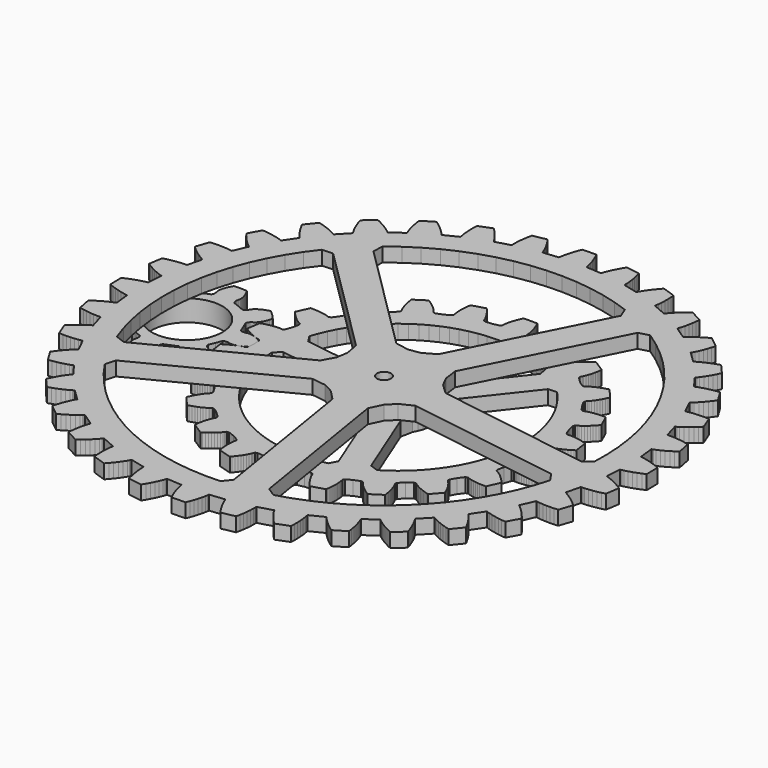
from build123d import *

# Parameters (mm, degrees)
F0_R     = 1.27
F1_DEPTH = 2.54
F2_R     = 6.35
F3_DEPTH = 3.81
F2_R_2   = 1.27
F4_DEPTH = 2.54


with BuildPart() as f1:
    # F0 (on Top) → F1 (new body)
    with BuildSketch(Plane.XY):
        Polygon((18.375401, -1.336624), (18.220461, -1.28811), (18.401309, 1.43604), (18.561329, 1.463726), (18.721349, 1.493952), (19.041389, 1.56304), (19.681977, 1.729664), (20.322819, 1.930578), (20.962899, 2.16248), (21.602217, 2.423084), (22.227418, 2.705071), (22.239602, 2.742456), (22.18796, 5.201742), (22.186128, 5.203334), (21.538717, 5.463464), (20.888985, 5.69689), (20.239507, 5.901868), (19.591045, 6.075858), (18.944107, 6.215558), (18.621273, 6.27093), (18.459983, 6.294806), (18.299201, 6.315634), (18.004307, 9.029878), (18.156961, 9.084742), (18.309361, 9.1424), (18.612637, 9.266098), (19.214617, 9.541434), (19.810755, 9.850552), (20.400797, 10.19015), (20.985251, 10.557688), (21.563355, 10.951896), (21.079485, 13.396646), (20.394447, 13.540664), (19.714235, 13.658012), (19.039103, 13.746912), (18.370321, 13.805586), (17.708651, 13.830986), (17.381245, 13.829462), (17.218431, 13.82489), (17.056379, 13.817524), (16.294633, 16.439312), (16.435603, 16.51983), (16.575303, 16.603142), (16.852671, 16.777386), (17.397755, 17.153306), (17.930901, 17.56123), (18.453379, 17.99811), (18.964935, 18.46166), (19.465823, 18.950102), (18.564631, 21.273694), (17.865115, 21.296808), (17.174997, 21.294014), (16.494531, 21.26455), (15.825749, 21.20613), (15.169921, 21.11596), (14.847595, 21.057794), (14.688083, 21.025028), (14.529587, 20.989468), (13.324357, 23.439298), (13.449071, 23.543184), (13.572261, 23.649356), (13.815085, 23.86932), (14.286509, 24.333886), (14.740915, 24.828424), (15.179573, 25.349124), (15.602737, 25.894462), (16.011423, 26.46266), (14.720341, 28.594482), (14.027429, 28.495676), (13.348233, 28.373248), (12.683261, 28.225928), (12.034799, 28.052192), (11.404371, 27.849754), (11.097285, 27.73647), (10.945901, 27.676272), (10.796041, 27.614042), (9.183649, 29.816984), (9.288297, 29.940936), (9.391421, 30.067174), (9.592081, 30.325746), (9.975875, 30.865242), (10.337571, 31.431154), (10.678947, 32.02018), (11.001019, 32.630796), (11.304803, 33.261224), (9.663201, 35.136506), (8.997975, 34.918828), (8.350275, 34.680068), (7.721117, 34.419718), (7.112533, 34.136), (6.527063, 33.827136), (6.244107, 33.66229), (6.105423, 33.576946), (5.968771, 33.489316), (3.998239, 35.379076), (4.079773, 35.519284), (4.159275, 35.66127), (4.312183, 35.951084), (4.596409, 36.549), (4.854219, 37.16876), (5.088153, 37.808332), (5.299481, 38.465684), (5.489219, 39.139292), (3.546881, 40.700884), (2.929661, 40.370938), (2.333015, 40.023466), (1.758721, 39.657706), (1.208811, 39.272642), (0.685571, 38.86675), (0.435635, 38.655168), (0.313969, 38.547218), (0.194589, 38.437236), (-2.074139, 39.956156), (-2.018005, 40.108302), (-1.964411, 40.261972), (-1.864081, 40.573884), (-1.688313, 41.211932), (-1.542009, 41.867252), (-1.422629, 42.537812), (-1.328649, 43.22158), (-1.258799, 43.918048), (-3.442945, 45.118706), (-3.993363, 44.686652), (-4.520413, 44.240882), (-5.022571, 43.780888), (-5.497551, 43.306162), (-5.942051, 42.815688), (-6.151601, 42.563974), (-6.252693, 42.436212), (-6.351245, 42.30718), (-8.849081, 43.409032), (-8.820379, 43.568798), (-8.794217, 43.72958), (-8.749513, 44.053938), (-8.687029, 44.713068), (-8.656803, 45.383882), (-8.655787, 46.064602), (-8.681949, 46.754466), (-8.734019, 47.452458), (-11.093425, 48.255606), (-11.560531, 47.734398), (-12.002237, 47.204046), (-12.416765, 46.663788), (-12.802083, 46.113878), (-13.154889, 45.553554), (-13.317195, 45.269328), (-13.394665, 45.126072), (-13.469341, 44.9818), (-16.120847, 45.633056), (-16.120085, 45.795362), (-16.122371, 45.958176), (-16.134563, 46.285582), (-16.187649, 46.945474), (-16.274263, 47.611208), (-16.391357, 48.282022), (-16.536899, 48.9569), (-16.709619, 49.63508), (-19.172657, 50.016334), (-19.542227, 49.421974), (-19.884873, 48.822788), (-20.199579, 48.21903), (-20.483297, 47.610446), (-20.733233, 46.997544), (-20.843977, 46.689188), (-20.895539, 46.534756), (-20.943799, 46.379816), (-23.668203, 46.560664), (-23.695635, 46.720684), (-23.726115, 46.880704), (-23.795203, 47.200744), (-23.961827, 47.841332), (-24.162741, 48.482174), (-24.394643, 49.122254), (-24.655247, 49.761572), (-24.943029, 50.39962), (-27.434769, 50.347296), (-27.695373, 49.698072), (-27.929053, 49.04834), (-28.133777, 48.398862), (-28.307767, 47.7504), (-28.447467, 47.103462), (-28.503093, 46.780628), (-28.526715, 46.619338), (-28.547543, 46.458556), (-31.261787, 46.163662), (-31.316651, 46.316316), (-31.374563, 46.468716), (-31.498007, 46.771992), (-31.773597, 47.373972), (-32.082715, 47.97011), (-32.422059, 48.560152), (-32.789851, 49.144606), (-33.183805, 49.72271), (-35.628809, 49.23884), (-35.772827, 48.553802), (-35.889921, 47.87359), (-35.979075, 47.198458), (-36.037749, 46.529676), (-36.062895, 45.868006), (-36.061625, 45.5406), (-36.057053, 45.377786), (-36.049433, 45.215734), (-38.671221, 44.453988), (-38.751993, 44.594958), (-38.835305, 44.734658), (-39.009549, 45.012026), (-39.385469, 45.55711), (-39.793393, 46.090256), (-40.230019, 46.612734), (-40.693569, 47.12429), (-41.182265, 47.625178), (-43.505857, 46.723986), (-43.528717, 46.02447), (-43.526177, 45.334352), (-43.496459, 44.653886), (-43.438039, 43.985104), (-43.348123, 43.329276), (-43.289957, 43.00695), (-43.257191, 42.847438), (-43.221631, 42.688942), (-45.671207, 41.483712), (-45.775093, 41.608426), (-45.881519, 41.731616), (-46.101229, 41.97444), (-46.566049, 42.445864), (-47.060333, 42.90027), (-47.581287, 43.338928), (-48.126625, 43.762092), (-48.694823, 44.170778), (-50.826645, 42.879696), (-50.727839, 42.186784), (-50.605157, 41.507588), (-50.457837, 40.842616), (-50.284101, 40.194154), (-50.081663, 39.563726), (-49.968379, 39.25664), (-49.908435, 39.105256), (-49.845951, 38.955396), (-52.049147, 37.343004), (-52.173099, 37.447652), (-52.299337, 37.550776), (-52.557909, 37.751436), (-53.097405, 38.13523), (-53.663063, 38.496926), (-54.252343, 38.838302), (-54.862705, 39.160374), (-55.493387, 39.464158), (-57.368415, 37.822556), (-57.150991, 37.15733), (-56.912231, 36.50963), (-56.651627, 35.880472), (-56.368163, 35.271888), (-56.059299, 34.686418), (-55.894199, 34.403462), (-55.808855, 34.264778), (-55.721479, 34.128126), (-57.610985, 32.157594), (-57.751193, 32.239128), (-57.893433, 32.31863), (-58.182993, 32.471538), (-58.780909, 32.755764), (-59.400923, 33.013574), (-60.040495, 33.247508), (-60.697593, 33.458836), (-61.371201, 33.648574), (-62.933047, 31.706236), (-62.603101, 31.089016), (-62.255629, 30.49237), (-61.889869, 29.918076), (-61.504805, 29.368166), (-61.098913, 28.844926), (-60.887331, 28.59499), (-60.779127, 28.473324), (-60.669399, 28.353944), (-62.188065, 26.085216), (-62.340465, 26.14135), (-62.494135, 26.194944), (-62.805793, 26.295274), (-63.444095, 26.471042), (-64.099415, 26.617346), (-64.769721, 26.736726), (-65.453743, 26.830706), (-66.149957, 26.900556), (-67.350615, 24.71641), (-66.918815, 24.165992), (-66.472791, 23.638942), (-66.013051, 23.136784), (-65.538325, 22.661804), (-65.047597, 22.217304), (-64.795883, 22.007754), (-64.668375, 21.906662), (-64.539343, 21.80811), (-65.641195, 19.310274), (-65.800707, 19.338976), (-65.961489, 19.365138), (-66.286101, 19.409842), (-66.944977, 19.472326), (-67.615791, 19.502552), (-68.296765, 19.503568), (-68.986629, 19.477406), (-69.684367, 19.425336), (-70.487515, 17.06593), (-69.966561, 16.598824), (-69.435955, 16.157118), (-68.895951, 15.74259), (-68.345787, 15.357272), (-67.785717, 15.004466), (-67.501237, 14.84216), (-67.357981, 14.76469), (-67.213963, 14.690014), (-67.865219, 12.038508), (-68.027525, 12.03927), (-68.190339, 12.036984), (-68.517491, 12.024792), (-69.177383, 11.971706), (-69.843371, 11.885092), (-70.514185, 11.767998), (-71.188809, 11.622456), (-71.866989, 11.449736), (-72.248243, 8.986698), (-71.654137, 8.617128), (-71.054951, 8.274482), (-70.450939, 7.959776), (-69.842355, 7.676058), (-69.229453, 7.426122), (-68.921351, 7.315378), (-68.766665, 7.263816), (-68.611979, 7.215556), (-68.792827, 4.491152), (-68.952593, 4.46372), (-69.112613, 4.43324), (-69.432907, 4.364152), (-70.073495, 4.197528), (-70.714083, 3.996614), (-71.354417, 3.764712), (-71.993735, 3.504108), (-72.631529, 3.216326), (-72.579459, 0.724586), (-71.929981, 0.463982), (-71.280503, 0.230302), (-70.631025, 0.025578), (-69.982563, -0.148412), (-69.335371, -0.288112), (-69.012537, -0.343738), (-68.851501, -0.36736), (-68.690465, -0.388188), (-68.395825, -3.102432), (-68.548479, -3.157296), (-68.700625, -3.215208), (-69.003901, -3.338652), (-69.605881, -3.614242), (-70.202019, -3.92336), (-70.792315, -4.262704), (-71.376515, -4.630496), (-71.954873, -5.02445), (-71.470749, -7.469454), (-70.785965, -7.613472), (-70.105499, -7.730566), (-69.430621, -7.81972), (-68.761585, -7.878394), (-68.100169, -7.90354), (-67.772763, -7.90227), (-67.609949, -7.897698), (-67.447643, -7.890078), (-66.686151, -10.511866), (-66.826867, -10.592638), (-66.966821, -10.67595), (-67.243935, -10.850194), (-67.789019, -11.226114), (-68.322419, -11.634038), (-68.844643, -12.070664), (-69.356199, -12.534214), (-69.857341, -13.02291), (-68.956149, -15.346502), (-68.256633, -15.369362), (-67.566261, -15.366822), (-66.886049, -15.337104), (-66.217013, -15.278684), (-65.561185, -15.188768), (-65.238859, -15.130602), (-65.079347, -15.097836), (-64.921105, -15.062276), (-63.715621, -17.511852), (-63.840335, -17.615738), (-63.963779, -17.722164), (-64.206603, -17.941874), (-64.678027, -18.406694), (-65.132433, -18.900978), (-65.570837, -19.421932), (-65.994255, -19.96727), (-66.402687, -20.535468), (-65.111605, -22.66729), (-64.418947, -22.568484), (-63.739497, -22.445802), (-63.074779, -22.298482), (-62.426063, -22.124746), (-61.795889, -21.922308), (-61.488549, -21.809024), (-61.337165, -21.74908), (-61.187305, -21.686596), (-59.574913, -23.889792), (-59.679815, -24.013744), (-59.782685, -24.139982), (-59.983599, -24.398554), (-60.367139, -24.93805), (-60.728835, -25.503708), (-61.070211, -26.092988), (-61.392537, -26.70335), (-61.696321, -27.334032), (-60.054465, -29.20906), (-59.389493, -28.991636), (-58.741539, -28.752876), (-58.112635, -28.492272), (-57.504051, -28.208808), (-56.918327, -27.899944), (-56.635625, -27.734844), (-56.496687, -27.6495), (-56.360035, -27.562124), (-54.389503, -29.45163), (-54.471291, -29.591838), (-54.550793, -29.734078), (-54.703701, -30.023638), (-54.987927, -30.621554), (-55.245737, -31.241568), (-55.479671, -31.88114), (-55.690999, -32.538238), (-55.880483, -33.211846), (-53.938145, -34.773692), (-53.320925, -34.443746), (-52.724533, -34.096274), (-52.150239, -33.730514), (-51.600075, -33.34545), (-51.077089, -32.939558), (-50.827153, -32.727976), (-50.705233, -32.619772), (-50.585853, -32.510044), (-48.317125, -34.02871), (-48.373259, -34.18111), (-48.426853, -34.33478), (-48.527183, -34.646438), (-48.703205, -35.28474), (-48.849509, -35.94006), (-48.968889, -36.610366), (-49.062869, -37.294388), (-49.132465, -37.990602), (-46.948573, -39.19126), (-46.397901, -38.75946), (-45.870851, -38.313436), (-45.368947, -37.853696), (-44.893967, -37.37897), (-44.449467, -36.888242), (-44.239917, -36.636528), (-44.138825, -36.50902), (-44.040273, -36.379988), (-41.542183, -37.48184), (-41.571139, -37.641352), (-41.597047, -37.802134), (-41.641751, -38.126746), (-41.704235, -38.785622), (-41.734715, -39.456436), (-41.735731, -40.13741), (-41.709569, -40.827274), (-41.657245, -41.525012), (-39.297839, -42.32816), (-38.830733, -41.807206), (-38.389027, -41.2766), (-37.974499, -40.736596), (-37.589181, -40.186432), (-37.236629, -39.626362), (-37.074069, -39.341882), (-36.996599, -39.198626), (-36.921923, -39.054608), (-34.270671, -39.705864), (-34.271179, -39.86817), (-34.269147, -40.030984), (-34.256701, -40.358136), (-34.203869, -41.018028), (-34.117255, -41.684016), (-33.999907, -42.35483), (-33.854365, -43.029454), (-33.681899, -43.707634), (-31.218861, -44.088888), (-30.849291, -43.494782), (-30.506391, -42.895596), (-30.191939, -42.291584), (-29.907967, -41.683), (-29.658031, -41.070098), (-29.547287, -40.761996), (-29.495979, -40.60731), (-29.447465, -40.452624), (-26.723315, -40.633472), (-26.695629, -40.793238), (-26.665403, -40.953258), (-26.596315, -41.273552), (-26.429691, -41.91414), (-26.228777, -42.554728), (-25.996875, -43.195062), (-25.736271, -43.83438), (-25.448489, -44.472174), (-22.956749, -44.420104), (-22.695891, -43.770626), (-22.462465, -43.121148), (-22.257487, -42.47167), (-22.083497, -41.823208), (-21.943797, -41.176016), (-21.888425, -40.853182), (-21.864549, -40.692146), (-21.843721, -40.53111), (-19.129477, -40.23647), (-19.074613, -40.389124), (-19.016955, -40.54127), (-18.893257, -40.844546), (-18.617921, -41.446526), (-18.308803, -42.042664), (-17.969205, -42.63296), (-17.601667, -43.21716), (-17.207459, -43.795518), (-14.762709, -43.311394), (-14.618691, -42.62661), (-14.501343, -41.946144), (-14.412443, -41.271266), (-14.353769, -40.60223), (-14.328369, -39.940814), (-14.329893, -39.613408), (-14.334465, -39.450594), (-14.341831, -39.288288), (-11.720043, -38.526796), (-11.639525, -38.667512), (-11.556213, -38.807466), (-11.381969, -39.08458), (-11.006049, -39.629664), (-10.598125, -40.163064), (-10.161245, -40.685288), (-9.697695, -41.196844), (-9.209253, -41.697986), (-6.885661, -40.796794), (-6.862547, -40.097278), (-6.865341, -39.406906), (-6.894805, -38.726694), (-6.953225, -38.057658), (-7.043395, -37.40183), (-7.101561, -37.079504), (-7.134327, -36.919992), (-7.169887, -36.76175), (-4.720057, -35.556266), (-4.616171, -35.68098), (-4.509999, -35.804424), (-4.290035, -36.047248), (-3.825469, -36.518672), (-3.330931, -36.973078), (-2.810231, -37.411482), (-2.264893, -37.8349), (-1.696695, -38.243332), (0.435127, -36.95225), (0.336321, -36.259592), (0.213893, -35.580142), (0.066573, -34.915424), (-0.107163, -34.266708), (-0.309601, -33.636534), (-0.422885, -33.329194), (-0.483083, -33.17781), (-0.545313, -33.02795), (1.657629, -31.415558), (1.781581, -31.52046), (1.907819, -31.62333), (2.166391, -31.824244), (2.705887, -32.207784), (3.271799, -32.56948), (3.860825, -32.910856), (4.471441, -33.233182), (5.101869, -33.536966), (6.977151, -31.89511), (6.759473, -31.230138), (6.520713, -30.582184), (6.260363, -29.95328), (5.976645, -29.344696), (5.667781, -28.758972), (5.502935, -28.47627), (5.417591, -28.337332), (5.329961, -28.20068), (7.219721, -26.230148), (7.359929, -26.311936), (7.501915, -26.391438), (7.791729, -26.544346), (8.389645, -26.828572), (9.009405, -27.086382), (9.648977, -27.320316), (10.306329, -27.531644), (10.979937, -27.721128), (12.541529, -25.77879), (12.211583, -25.16157), (11.864111, -24.565178), (11.498351, -23.990884), (11.113287, -23.44072), (10.707395, -22.917734), (10.495813, -22.667798), (10.387863, -22.545878), (10.277881, -22.426498), (11.796801, -20.15777), (11.948947, -20.213904), (12.102617, -20.267498), (12.414529, -20.367828), (13.052577, -20.54385), (13.707897, -20.690154), (14.378457, -20.809534), (15.062225, -20.903514), (15.758693, -20.97311), (16.959351, -18.789218), (16.527297, -18.238546), (16.081527, -17.711496), (15.621533, -17.209592), (15.146807, -16.734612), (14.656333, -16.290112), (14.404619, -16.080562), (14.276857, -15.97947), (14.147825, -15.880918), (15.249677, -13.382828), (15.409443, -13.411784), (15.570225, -13.437692), (15.894583, -13.482396), (16.553713, -13.54488), (17.224527, -13.57536), (17.905247, -13.576376), (18.595111, -13.550214), (19.293103, -13.49789), (20.096251, -11.138484), (19.575043, -10.671378), (19.044691, -10.229672), (18.504433, -9.815144), (17.954523, -9.429826), (17.394199, -9.077274), (17.109973, -8.914714), (16.966717, -8.837244), (16.822445, -8.762568), (17.473701, -6.111316), (17.636007, -6.111824), (17.798821, -6.109792), (18.126227, -6.097346), (18.786119, -6.044514), (19.451853, -5.9579), (20.122667, -5.840552), (20.797545, -5.69501), (21.475725, -5.522544), (21.856979, -3.059506), (21.262619, -2.689936), (20.663433, -2.347036), (20.059675, -2.032584), (19.451091, -1.748612), (18.838189, -1.498676), (18.529833, -1.387932), align=None)
        Polygon((-57.539865, -16.859072), (-32.495973, -3.98813), (-30.011599, -4.311472), (-28.193467, -5.229936), (-26.459155, -7.037654), (-21.957259, -34.833128), (-23.155123, -36.338078), (-25.880797, -36.384814), (-28.603169, -36.243082), (-31.309285, -35.913136), (-33.985937, -35.396754), (-36.620425, -34.696222), (-39.200049, -33.814842), (-41.712617, -32.757186), (-44.145683, -31.52808), (-46.488071, -30.133366), (-48.728097, -28.579902), (-50.855347, -26.875308), (-52.859661, -25.027204), (-54.730879, -23.044988), (-56.460619, -20.938058), (-58.040245, -18.71632), align=None, mode=Mode.SUBTRACT)
        with Locations((-25.195759, 2.963596)):
            Circle(F0_R, mode=Mode.SUBTRACT)
        Polygon((-16.338017, -33.923046), (-20.839913, -6.127572), (-19.764731, -3.864686), (-18.329631, -2.419426), (-16.074365, -1.328496), (11.752097, -5.636336), (12.812801, -7.2406), (12.015241, -9.847402), (11.039119, -12.392482), (9.889261, -14.864156), (8.570747, -17.250232), (7.090435, -19.53928), (5.455183, -21.720378), (3.672865, -23.783112), (1.751863, -25.717322), (-0.298171, -27.514118), (-2.467839, -29.16461), (-4.746473, -30.660924), (-7.123405, -31.995948), (-9.586951, -33.163078), (-12.125173, -34.15698), (-14.726387, -34.972828), align=None, mode=Mode.SUBTRACT)
        Polygon((-54.043047, 27.59931), (-34.063153, 7.758354), (-33.602905, 5.295824), (-33.914563, 3.282874), (-35.097949, 1.074598), (-60.141841, -11.79609), (-61.943209, -11.121974), (-62.830177, -8.544128), (-63.536551, -5.911164), (-64.059029, -3.235782), (-64.394817, -0.530428), (-64.542645, 2.19169), (-64.501751, 4.917364), (-64.272135, 7.63364), (-63.855067, 10.327818), (-63.252579, 12.986436), (-62.467465, 15.596794), (-61.503535, 18.1467), (-60.365361, 20.623962), (-59.058277, 23.016134), (-57.588887, 25.312294), (-55.964049, 27.501266), align=None, mode=Mode.SUBTRACT)
        Polygon((-10.680167, 38.01204), (-23.375849, 12.87874), (-25.575743, 11.680114), (-27.586407, 11.354486), (-30.052239, 11.797462), (-50.032133, 31.638418), (-49.947551, 33.559928), (-47.770009, 35.200006), (-45.484263, 36.685398), (-43.100981, 38.008992), (-40.631847, 39.164438), (-38.088799, 40.146402), (-35.483775, 40.94955), (-32.829475, 41.570834), (-30.138599, 42.006698), (-27.423847, 42.25511), (-24.698427, 42.315054), (-21.975293, 42.186276), (-19.267907, 41.869284), (-16.588715, 41.365602), (-13.950925, 40.677516), (-11.366983, 39.808582), align=None, mode=Mode.SUBTRACT)
        Polygon((12.622809, -0.010744), (-15.203653, 4.296842), (-17.023309, 6.018708), (-17.954219, 7.830236), (-18.295087, 10.31207), (-5.599151, 35.44537), (-3.745713, 35.958704), (-1.512799, 34.394572), (0.606069, 32.679818), (2.601493, 30.822316), (4.463313, 28.83121), (6.182893, 26.715898), (7.751851, 24.48654), (9.162821, 22.154058), (10.408945, 19.729374), (11.484127, 17.224426), (12.383287, 14.650898), (13.102361, 12.02149), (13.637539, 9.348394), (13.986281, 6.644818), (14.147063, 3.923462), (14.119123, 1.197534), align=None, mode=Mode.SUBTRACT)
    extrude(amount=F1_DEPTH)


with BuildPart() as f3:
    # F2 (on Top) → F3 (new body)
    with BuildSketch(Plane.XY):
        Polygon((-52.588262, 5.053381), (-53.012188, 6.119673), (-53.46634, 7.173519), (-53.453894, 7.276897), (-53.430018, 7.360209), (-53.400046, 7.432599), (-53.365756, 7.498131), (-53.28854, 7.614209), (-53.202942, 7.716063), (-53.110486, 7.807757), (-53.01295, 7.890815), (-52.80467, 8.037119), (-52.584452, 8.164881), (-52.396492, 8.342173), (-52.226058, 8.545627), (-52.069086, 8.768131), (-51.92456, 9.006891), (-51.791972, 9.260129), (-51.670814, 9.526575), (-51.56134, 9.805213), (-51.463296, 10.095535), (-51.377444, 10.396525), (-51.320802, 10.629189), (-52.095756, 11.482121), (-52.948942, 12.257329), (-53.181352, 12.200687), (-53.482596, 12.114581), (-53.772664, 12.016791), (-54.051556, 11.907317), (-54.318002, 11.786159), (-54.570986, 11.653317), (-54.809746, 11.508791), (-55.03225, 11.352073), (-55.235958, 11.181639), (-55.41325, 10.993679), (-55.540758, 10.773207), (-55.687062, 10.565181), (-55.770374, 10.467391), (-55.862068, 10.375189), (-55.963922, 10.289337), (-56.08, 10.212121), (-56.145278, 10.178085), (-56.217922, 10.148113), (-56.301234, 10.124237), (-56.404358, 10.111537), (-57.458204, 10.565689), (-58.52475, 10.989869), (-58.588758, 11.071657), (-58.630668, 11.147349), (-58.660894, 11.219993), (-58.682992, 11.290351), (-58.710424, 11.427003), (-58.721854, 11.559845), (-58.721346, 11.689893), (-58.711186, 11.817655), (-58.667498, 12.068353), (-58.601712, 12.314479), (-58.594346, 12.572797), (-58.617714, 12.837211), (-58.664196, 13.105435), (-58.730744, 13.376453), (-58.816088, 13.649249), (-58.918704, 13.923315), (-59.038338, 14.197889), (-59.174482, 14.472209), (-59.326374, 14.746021), (-59.450834, 14.950491), (-60.602216, 15.005609), (-61.753344, 14.950491), (-61.877804, 14.746021), (-62.02995, 14.472209), (-62.16584, 14.197889), (-62.285474, 13.923315), (-62.388344, 13.649249), (-62.473434, 13.376453), (-62.539982, 13.105435), (-62.586464, 12.837211), (-62.609832, 12.572797), (-62.602466, 12.314479), (-62.536934, 12.068353), (-62.492992, 11.817655), (-62.482832, 11.689893), (-62.482324, 11.559845), (-62.493754, 11.427003), (-62.52144, 11.290351), (-62.543538, 11.219993), (-62.57351, 11.147349), (-62.615674, 11.071657), (-62.679682, 10.989869), (-63.745974, 10.565689), (-64.79982, 10.111537), (-64.902944, 10.124237), (-64.986256, 10.148113), (-65.0589, 10.178085), (-65.124432, 10.212121), (-65.240256, 10.289337), (-65.342364, 10.375189), (-65.433804, 10.467391), (-65.517116, 10.565181), (-65.66342, 10.773207), (-65.790928, 10.993679), (-65.968474, 11.181639), (-66.171928, 11.352073), (-66.394432, 11.508791), (-66.633192, 11.653317), (-66.88643, 11.786159), (-67.152876, 11.907317), (-67.431514, 12.016791), (-67.721836, 12.114581), (-68.022826, 12.200687), (-68.255236, 12.257329), (-69.108422, 11.482121), (-69.88363, 10.629189), (-69.826988, 10.396525), (-69.740882, 10.095535), (-69.643092, 9.805213), (-69.533618, 9.526575), (-69.41246, 9.260129), (-69.279618, 9.006891), (-69.135092, 8.768131), (-68.978374, 8.545627), (-68.80794, 8.342173), (-68.61998, 8.164881), (-68.399508, 8.037119), (-68.191228, 7.890815), (-68.093692, 7.807757), (-68.00149, 7.716063), (-67.915638, 7.614209), (-67.838422, 7.498131), (-67.804386, 7.432599), (-67.77416, 7.360209), (-67.750538, 7.276897), (-67.737838, 7.173519), (-68.19199, 6.119673), (-68.61617, 5.053381), (-68.697958, 4.989373), (-68.77365, 4.947209), (-68.846294, 4.917237), (-68.916652, 4.895139), (-69.053304, 4.867707), (-69.186146, 4.856277), (-69.316194, 4.856785), (-69.443956, 4.866691), (-69.694654, 4.910633), (-69.940526, 4.976165), (-70.199098, 4.983785), (-70.463512, 4.960417), (-70.731736, 4.913935), (-71.002754, 4.847133), (-71.27555, 4.762043), (-71.549616, 4.659427), (-71.82419, 4.539539), (-72.09851, 4.403649), (-72.372322, 4.251503), (-72.576792, 4.127297), (-72.63191, 2.975915), (-72.576792, 1.824533), (-72.372322, 1.700327), (-72.09851, 1.548181), (-71.82419, 1.412037), (-71.549616, 1.292403), (-71.27555, 1.189787), (-71.002754, 1.104443), (-70.731736, 1.037895), (-70.463512, 0.991413), (-70.199098, 0.968045), (-69.940526, 0.975665), (-69.694654, 1.041197), (-69.443956, 1.084885), (-69.316194, 1.095045), (-69.186146, 1.095553), (-69.053304, 1.084123), (-68.916652, 1.056691), (-68.846294, 1.034593), (-68.77365, 1.004621), (-68.697958, 0.962457), (-68.61617, 0.898449), (-68.19199, -0.167843), (-67.737838, -1.221689), (-67.750538, -1.325067), (-67.77416, -1.408379), (-67.804386, -1.480769), (-67.838422, -1.546301), (-67.915638, -1.662379), (-68.00149, -1.764233), (-68.093692, -1.855927), (-68.191228, -1.939239), (-68.399508, -2.085289), (-68.61998, -2.213051), (-68.80794, -2.390343), (-68.978374, -2.593797), (-69.135092, -2.816301), (-69.279618, -3.055061), (-69.41246, -3.308299), (-69.533618, -3.574745), (-69.643092, -3.853383), (-69.740882, -4.143705), (-69.826988, -4.444695), (-69.88363, -4.677359), (-69.108422, -5.530545), (-68.255236, -6.305499), (-68.022826, -6.248857), (-67.721836, -6.162751), (-67.431514, -6.064961), (-67.152876, -5.955487), (-66.88643, -5.834329), (-66.633192, -5.701487), (-66.394432, -5.556961), (-66.171928, -5.400243), (-65.968474, -5.229809), (-65.790928, -5.041849), (-65.66342, -4.821377), (-65.517116, -4.613351), (-65.433804, -4.515561), (-65.342364, -4.423359), (-65.240256, -4.337507), (-65.124432, -4.260291), (-65.0589, -4.226255), (-64.986256, -4.196283), (-64.902944, -4.172407), (-64.79982, -4.159707), (-63.745974, -4.614113), (-62.679682, -5.038039), (-62.615674, -5.119827), (-62.57351, -5.195519), (-62.543538, -5.268163), (-62.52144, -5.338521), (-62.493754, -5.475173), (-62.482324, -5.608015), (-62.482832, -5.738063), (-62.492992, -5.865825), (-62.536934, -6.116523), (-62.602466, -6.362649), (-62.609832, -6.620967), (-62.586464, -6.885381), (-62.539982, -7.153605), (-62.473434, -7.424623), (-62.388344, -7.697419), (-62.285474, -7.971485), (-62.16584, -8.246059), (-62.02995, -8.520633), (-61.877804, -8.794191), (-61.753344, -8.998661), (-60.602216, -9.053779), (-59.450834, -8.998661), (-59.326374, -8.794191), (-59.174482, -8.520633), (-59.038338, -8.246059), (-58.918704, -7.971485), (-58.816088, -7.697419), (-58.730744, -7.424623), (-58.664196, -7.153605), (-58.617714, -6.885381), (-58.594346, -6.620967), (-58.601712, -6.362649), (-58.667498, -6.116523), (-58.711186, -5.865825), (-58.721346, -5.738063), (-58.721854, -5.608015), (-58.710424, -5.475173), (-58.682992, -5.338521), (-58.660894, -5.268163), (-58.630668, -5.195519), (-58.588758, -5.119827), (-58.52475, -5.038039), (-57.458204, -4.614113), (-56.404358, -4.159707), (-56.301234, -4.172407), (-56.217922, -4.196283), (-56.145278, -4.226255), (-56.08, -4.260291), (-55.963922, -4.337507), (-55.862068, -4.423359), (-55.770374, -4.515561), (-55.687062, -4.613351), (-55.540758, -4.821377), (-55.41325, -5.041849), (-55.235958, -5.229809), (-55.03225, -5.400243), (-54.809746, -5.556961), (-54.570986, -5.701487), (-54.318002, -5.834329), (-54.051556, -5.955487), (-53.772664, -6.064961), (-53.482596, -6.162751), (-53.181352, -6.248857), (-52.948942, -6.305499), (-52.095756, -5.530545), (-51.320802, -4.677359), (-51.377444, -4.444695), (-51.463296, -4.143705), (-51.56134, -3.853383), (-51.670814, -3.574745), (-51.791972, -3.308299), (-51.92456, -3.055061), (-52.069086, -2.816301), (-52.226058, -2.593797), (-52.396492, -2.390343), (-52.584452, -2.213051), (-52.80467, -2.085289), (-53.01295, -1.939239), (-53.110486, -1.855927), (-53.202942, -1.764233), (-53.28854, -1.662379), (-53.365756, -1.546301), (-53.400046, -1.480769), (-53.430018, -1.408379), (-53.453894, -1.325067), (-53.46634, -1.221689), (-53.012188, -0.167843), (-52.588262, 0.898449), (-52.506474, 0.962457), (-52.430528, 1.004621), (-52.358138, 1.034593), (-52.287526, 1.056691), (-52.151128, 1.084123), (-52.018286, 1.095553), (-51.888238, 1.095045), (-51.760476, 1.084885), (-51.509778, 1.041197), (-51.263652, 0.975665), (-51.005334, 0.968045), (-50.74092, 0.991413), (-50.472696, 1.037895), (-50.201678, 1.104443), (-49.928628, 1.189787), (-49.654562, 1.292403), (-49.380242, 1.412037), (-49.105668, 1.548181), (-48.83211, 1.700327), (-48.640576, 1.816674), (-48.572268, 2.975915), (-48.640576, 4.135155), (-48.83211, 4.251503), (-49.105668, 4.403649), (-49.380242, 4.539539), (-49.654562, 4.659427), (-49.928628, 4.762043), (-50.201678, 4.847133), (-50.472696, 4.913935), (-50.74092, 4.960417), (-51.005334, 4.983785), (-51.263652, 4.976165), (-51.509778, 4.910633), (-51.760476, 4.866691), (-51.888238, 4.856785), (-52.018286, 4.856277), (-52.151128, 4.867707), (-52.287526, 4.895139), (-52.358138, 4.917237), (-52.430528, 4.947209), (-52.506474, 4.989373), align=None)
        with Locations((-60.602216, 2.975915)):
            Circle(F2_R, mode=Mode.SUBTRACT)
    extrude(amount=-F3_DEPTH)


with BuildPart() as f4:
    # F2 (on Top) → F4 (new body)
    with BuildSketch(Plane.XY):
        Polygon((-48.641356, 4.148379), (-48.640576, 4.135155), (-48.62764, 4.127297), (-48.572268, 2.975915), (-48.62764, 1.824533), (-48.640576, 1.816674), (-48.641356, 1.803451), (-48.73178, 1.697533), (-48.816616, 1.493063), (-49.005846, 1.462075), (-49.194314, 1.420165), (-49.382528, 1.370127), (-49.757178, 1.250747), (-50.130304, 1.109015), (-50.501398, 0.947979), (-50.870206, 0.769163), (-51.237236, 0.573837), (-51.601726, 0.362763), (-51.963676, 0.136703), (-52.233424, -0.042367), (-51.88519, -2.464765), (-51.575818, -2.560523), (-51.164846, -2.675585), (-50.755652, -2.775407), (-50.34849, -2.859481), (-49.944122, -2.927045), (-49.542802, -2.977083), (-49.145038, -3.007817), (-48.751846, -3.016707), (-48.557282, -3.011627), (-48.364496, -2.998673), (-48.173996, -2.975305), (-48.035312, -3.147517), (-47.918472, -3.223971), (-47.521978, -4.329379), (-47.257818, -5.473649), (-47.314968, -5.600903), (-47.33859, -5.820867), (-47.51131, -5.903925), (-47.680474, -5.997397), (-47.846844, -6.098235), (-48.17298, -6.318453), (-48.490988, -6.559499), (-48.80163, -6.818579), (-49.10516, -7.093915), (-49.402086, -7.384745), (-49.692408, -7.690053), (-49.976126, -8.008823), (-50.184406, -8.256727), (-49.167644, -10.482783), (-48.844048, -10.487609), (-48.417328, -10.482275), (-47.99645, -10.462717), (-47.58243, -10.428681), (-47.175268, -10.379659), (-46.77598, -10.314635), (-46.385582, -10.232085), (-46.005852, -10.129723), (-45.820432, -10.070033), (-45.63933, -10.003485), (-45.463308, -9.927285), (-45.281444, -10.053523), (-45.14784, -10.093655), (-44.456198, -11.042599), (-43.88038, -12.066219), (-43.899176, -12.204395), (-43.859806, -12.422073), (-44.0023, -12.550597), (-44.13819, -12.687757), (-44.269508, -12.831521), (-44.520206, -13.134543), (-44.757442, -13.455345), (-44.982486, -13.791387), (-45.196354, -14.141399), (-45.3993, -14.504111), (-45.591832, -14.878761), (-45.774204, -15.264587), (-45.904252, -15.561005), (-44.301512, -17.410633), (-43.9896, -17.324019), (-43.581676, -17.198543), (-43.183404, -17.061383), (-42.795546, -16.912031), (-42.418864, -16.750233), (-42.05412, -16.575227), (-41.702838, -16.386251), (-41.36705, -16.181019), (-41.206268, -16.071545), (-41.051074, -15.956483), (-40.9035, -15.833801), (-40.693696, -15.903651), (-40.55425, -15.904667), (-39.623086, -16.620439), (-38.782092, -17.440351), (-38.761264, -17.578019), (-38.662204, -17.775885), (-38.762788, -17.939461), (-38.854482, -18.109387), (-38.94008, -18.284139), (-39.095274, -18.645581), (-39.232434, -19.020231), (-39.353592, -19.406057), (-39.460272, -19.802043), (-39.552728, -20.207427), (-39.631976, -20.620939), (-39.698016, -21.042579), (-39.739418, -21.363635), (-37.680748, -22.686721), (-37.405666, -22.515779), (-37.049812, -22.280575), (-36.70615, -22.036735), (-36.376204, -21.784259), (-36.060228, -21.522639), (-35.759492, -21.252129), (-35.475774, -20.971713), (-35.211614, -20.680375), (-35.087916, -20.530007), (-34.971584, -20.375829), (-34.86465, -20.216571), (-34.643416, -20.224445), (-34.509304, -20.186345), (-33.41431, -20.610525), (-32.376466, -21.160181), (-32.317538, -21.286673), (-32.166916, -21.448471), (-32.217208, -21.633637), (-32.25734, -21.822613), (-32.290106, -22.014383), (-32.33735, -22.405035), (-32.363258, -22.803053), (-32.371132, -23.207421), (-32.361734, -23.617377), (-32.336334, -24.032413), (-32.295694, -24.451513), (-32.240576, -24.874677), (-32.189522, -25.194463), (-29.841546, -25.884073), (-29.6259, -25.642519), (-29.350564, -25.316383), (-29.089706, -24.985675), (-28.844088, -24.650395), (-28.614726, -24.310543), (-28.402382, -23.966119), (-28.209088, -23.617123), (-28.037638, -23.263047), (-27.961438, -23.083977), (-27.893112, -22.903383), (-27.835454, -22.720503), (-27.621078, -22.665639), (-27.503222, -22.591217), (-26.33279, -22.689769), (-25.182424, -22.924973), (-25.090222, -23.029621), (-24.899976, -23.142397), (-24.896166, -23.334167), (-24.881434, -23.526953), (-24.858828, -23.720247), (-24.793804, -24.108105), (-24.706936, -24.497487), (-24.600256, -24.887631), (-24.475796, -25.278537), (-24.334572, -25.669443), (-24.1776, -26.060095), (-24.005134, -26.450747), (-23.86645, -26.743101), (-21.41916, -26.743101), (-21.280222, -26.450747), (-21.10801, -26.060095), (-20.951038, -25.669443), (-20.809814, -25.278537), (-20.685354, -24.887631), (-20.578674, -24.497487), (-20.491552, -24.108105), (-20.426782, -23.720247), (-20.404176, -23.526953), (-20.389444, -23.334167), (-20.385634, -23.142397), (-20.195388, -23.029621), (-20.103186, -22.924973), (-18.952566, -22.689769), (-17.782388, -22.591217), (-17.664532, -22.665639), (-17.450156, -22.720503), (-17.392244, -22.903383), (-17.323918, -23.083977), (-17.247972, -23.263047), (-17.076268, -23.617123), (-16.882974, -23.966119), (-16.670884, -24.310543), (-16.441268, -24.650395), (-16.19565, -24.985675), (-15.935046, -25.316383), (-15.65971, -25.642519), (-15.444064, -25.884073), (-13.095834, -25.194463), (-13.045034, -24.874677), (-12.989662, -24.451513), (-12.949022, -24.032413), (-12.923876, -23.617377), (-12.914478, -23.207421), (-12.922098, -22.803053), (-12.94826, -22.405035), (-12.99525, -22.014383), (-13.028016, -21.822613), (-13.068402, -21.633637), (-13.118694, -21.448471), (-12.967818, -21.286673), (-12.90889, -21.160181), (-11.8713, -20.610525), (-10.776052, -20.186345), (-10.64194, -20.224445), (-10.42096, -20.216571), (-10.314026, -20.375829), (-10.19744, -20.530007), (-10.073996, -20.680375), (-9.809582, -20.971713), (-9.525864, -21.252129), (-9.225382, -21.522639), (-8.909406, -21.784259), (-8.579206, -22.036735), (-8.235798, -22.280575), (-7.87969, -22.515779), (-7.604862, -22.686721), (-5.546192, -21.363635), (-5.58734, -21.042579), (-5.653634, -20.620939), (-5.732628, -20.207427), (-5.825338, -19.802043), (-5.931764, -19.406057), (-6.053176, -19.020231), (-6.190336, -18.645581), (-6.34553, -18.284139), (-6.430874, -18.109387), (-6.522822, -17.939461), (-6.623152, -17.775885), (-6.524092, -17.578019), (-6.503264, -17.440351), (-5.662524, -16.620439), (-4.73136, -15.904667), (-4.591914, -15.903651), (-4.381856, -15.833801), (-4.234536, -15.956483), (-4.079342, -16.071545), (-3.918306, -16.181019), (-3.582772, -16.386251), (-3.23149, -16.575227), (-2.866746, -16.750233), (-2.48981, -16.912031), (-2.101952, -17.061383), (-1.70368, -17.198543), (-1.29601, -17.324019), (-0.983844, -17.410633), (0.618642, -15.561005), (0.488594, -15.264587), (0.306222, -14.878761), (0.11369, -14.504111), (-0.089256, -14.141399), (-0.30287, -13.791387), (-0.528168, -13.455345), (-0.76515, -13.134543), (-1.016102, -12.831521), (-1.147166, -12.687757), (-1.28331, -12.550597), (-1.42555, -12.422073), (-1.386434, -12.204395), (-1.40523, -12.066219), (-0.829412, -11.042599), (-0.137516, -10.093655), (-0.004166, -10.053523), (0.177698, -9.927285), (0.35372, -10.003485), (0.535076, -10.070033), (0.720242, -10.129723), (1.100226, -10.232085), (1.49037, -10.314635), (1.889658, -10.379659), (2.29682, -10.428681), (2.711094, -10.462717), (3.131718, -10.482275), (3.558692, -10.487609), (3.882288, -10.482783), (4.898796, -8.256727), (4.690516, -8.008823), (4.407052, -7.690053), (4.11673, -7.384745), (3.819804, -7.093915), (3.51602, -6.818579), (3.205378, -6.559499), (2.88737, -6.318453), (2.561488, -6.098235), (2.395118, -5.997397), (2.225954, -5.903925), (2.05298, -5.820867), (2.029358, -5.600903), (1.972462, -5.473649), (2.236622, -4.329379), (2.633116, -3.223971), (2.749702, -3.147517), (2.88864, -2.975305), (3.078886, -2.998673), (3.271672, -3.011627), (3.466236, -3.016707), (3.859428, -3.007817), (4.257192, -2.977083), (4.658766, -2.927045), (5.063134, -2.859481), (5.470042, -2.775407), (5.87949, -2.675585), (6.290462, -2.560523), (6.59958, -2.464765), (6.947814, -0.042367), (6.678066, 0.136703), (6.316116, 0.362763), (5.951626, 0.573837), (5.58485, 0.769163), (5.215788, 0.947979), (4.844694, 1.109015), (4.471822, 1.250747), (4.096918, 1.370127), (3.908958, 1.420165), (3.720236, 1.462075), (3.531006, 1.493063), (3.446424, 1.697533), (3.355746, 1.803451), (3.286912, 2.975915), (3.355746, 4.148379), (3.446424, 4.254297), (3.531006, 4.458767), (3.720236, 4.489755), (3.908958, 4.531665), (4.096918, 4.581703), (4.471822, 4.701083), (4.844694, 4.842815), (5.215788, 5.003851), (5.58485, 5.182667), (5.951626, 5.377993), (6.316116, 5.589067), (6.678066, 5.815127), (6.947814, 5.994197), (6.59958, 8.416595), (6.290462, 8.512353), (5.87949, 8.627415), (5.470042, 8.727237), (5.063134, 8.811311), (4.658766, 8.878875), (4.257192, 8.928913), (3.859428, 8.959647), (3.466236, 8.968537), (3.271672, 8.963457), (3.078886, 8.950503), (2.88864, 8.927135), (2.749702, 9.099347), (2.633116, 9.175801), (2.236622, 10.281209), (1.972462, 11.425479), (2.029358, 11.552733), (2.05298, 11.772697), (2.225954, 11.855755), (2.395118, 11.949227), (2.561488, 12.050065), (2.88737, 12.270283), (3.205378, 12.511075), (3.51602, 12.770155), (3.819804, 13.045745), (4.11673, 13.336575), (4.407052, 13.641883), (4.690516, 13.960653), (4.898796, 14.208557), (3.882288, 16.434613), (3.558692, 16.439439), (3.131718, 16.434105), (2.711094, 16.414547), (2.29682, 16.380511), (1.889658, 16.331489), (1.49037, 16.266211), (1.100226, 16.183915), (0.720242, 16.081553), (0.535076, 16.021863), (0.35372, 15.955315), (0.177698, 15.879115), (-0.004166, 16.005353), (-0.137516, 16.045485), (-0.829412, 16.994429), (-1.40523, 18.018049), (-1.386434, 18.156225), (-1.42555, 18.373903), (-1.28331, 18.502427), (-1.147166, 18.639587), (-1.016102, 18.783351), (-0.76515, 19.086373), (-0.528168, 19.407175), (-0.30287, 19.743217), (-0.089256, 20.093229), (0.11369, 20.455941), (0.306222, 20.830591), (0.488594, 21.216417), (0.618642, 21.512835), (-0.983844, 23.362463), (-1.29601, 23.275849), (-1.70368, 23.150373), (-2.101952, 23.013213), (-2.48981, 22.863861), (-2.866746, 22.702063), (-3.23149, 22.527057), (-3.582772, 22.337827), (-3.918306, 22.132849), (-4.079342, 22.023375), (-4.234536, 21.908313), (-4.381856, 21.785631), (-4.591914, 21.855481), (-4.73136, 21.856497), (-5.662524, 22.572269), (-6.503264, 23.391927), (-6.524092, 23.529849), (-6.623152, 23.727715), (-6.522822, 23.891291), (-6.430874, 24.061217), (-6.34553, 24.235969), (-6.190336, 24.597411), (-6.053176, 24.972061), (-5.931764, 25.357887), (-5.825338, 25.753873), (-5.732628, 26.159257), (-5.653634, 26.572769), (-5.58734, 26.994409), (-5.546192, 27.315465), (-7.604862, 28.638551), (-7.87969, 28.467609), (-8.235798, 28.232405), (-8.579206, 27.988565), (-8.909406, 27.735835), (-9.225382, 27.474469), (-9.525864, 27.203959), (-9.809582, 26.923543), (-10.073996, 26.632205), (-10.19744, 26.481837), (-10.314026, 26.327659), (-10.42096, 26.168401), (-10.64194, 26.176275), (-10.776052, 26.137921), (-11.8713, 26.562355), (-12.90889, 27.112011), (-12.967818, 27.238503), (-13.118694, 27.400301), (-13.068402, 27.585467), (-13.028016, 27.774443), (-12.99525, 27.966213), (-12.94826, 28.356865), (-12.922098, 28.754883), (-12.914478, 29.159251), (-12.923876, 29.569207), (-12.949022, 29.984243), (-12.989662, 30.403343), (-13.045034, 30.826507), (-13.095834, 31.146293), (-15.444064, 31.835903), (-15.65971, 31.594349), (-15.935046, 31.268213), (-16.19565, 30.937505), (-16.441268, 30.602225), (-16.670884, 30.262373), (-16.882974, 29.917949), (-17.076268, 29.568953), (-17.247972, 29.214877), (-17.323918, 29.035807), (-17.392244, 28.855213), (-17.450156, 28.672333), (-17.664532, 28.617469), (-17.782388, 28.543047), (-18.952566, 28.641599), (-20.103186, 28.876803), (-20.195388, 28.981451), (-20.385634, 29.094227), (-20.389444, 29.285997), (-20.404176, 29.478783), (-20.426782, 29.672077), (-20.491552, 30.059935), (-20.578674, 30.449317), (-20.685354, 30.839461), (-20.809814, 31.230113), (-20.951038, 31.621273), (-21.10801, 32.011925), (-21.280222, 32.402323), (-21.41916, 32.694931), (-23.86645, 32.694931), (-24.005134, 32.402323), (-24.1776, 32.011925), (-24.334572, 31.621273), (-24.475796, 31.230113), (-24.600256, 30.839461), (-24.706936, 30.449317), (-24.793804, 30.059935), (-24.858828, 29.672077), (-24.881434, 29.478783), (-24.896166, 29.285997), (-24.899976, 29.094227), (-25.090222, 28.981451), (-25.182424, 28.876803), (-26.33279, 28.641599), (-27.503222, 28.543047), (-27.621078, 28.617469), (-27.835454, 28.672333), (-27.893112, 28.855213), (-27.961438, 29.035807), (-28.037638, 29.214877), (-28.209088, 29.568953), (-28.402382, 29.917949), (-28.614726, 30.262373), (-28.844088, 30.602225), (-29.089706, 30.937505), (-29.350564, 31.268213), (-29.6259, 31.594349), (-29.841546, 31.835903), (-32.189522, 31.146293), (-32.240576, 30.826507), (-32.295694, 30.403343), (-32.336334, 29.984243), (-32.361734, 29.569207), (-32.371132, 29.159251), (-32.363258, 28.754883), (-32.33735, 28.356865), (-32.290106, 27.966213), (-32.25734, 27.774443), (-32.217208, 27.585467), (-32.166916, 27.400301), (-32.317538, 27.238503), (-32.376466, 27.112011), (-33.41431, 26.562355), (-34.509304, 26.137921), (-34.643416, 26.176275), (-34.86465, 26.168401), (-34.971584, 26.327659), (-35.087916, 26.481837), (-35.211614, 26.632205), (-35.475774, 26.923543), (-35.759492, 27.203959), (-36.060228, 27.474469), (-36.376204, 27.735835), (-36.70615, 27.988565), (-37.049812, 28.232405), (-37.405666, 28.467609), (-37.680748, 28.638551), (-39.739418, 27.315465), (-39.698016, 26.994409), (-39.631976, 26.572769), (-39.552728, 26.159257), (-39.460272, 25.753873), (-39.353592, 25.357887), (-39.232434, 24.972061), (-39.095274, 24.597411), (-38.94008, 24.235969), (-38.854482, 24.061217), (-38.762788, 23.891291), (-38.662204, 23.727715), (-38.761264, 23.529849), (-38.782092, 23.391927), (-39.623086, 22.572269), (-40.55425, 21.856497), (-40.693696, 21.855481), (-40.9035, 21.785631), (-41.051074, 21.908313), (-41.206268, 22.023375), (-41.36705, 22.132849), (-41.702838, 22.337827), (-42.05412, 22.527057), (-42.418864, 22.702063), (-42.795546, 22.863861), (-43.183404, 23.013213), (-43.581676, 23.150373), (-43.9896, 23.275849), (-44.301512, 23.362463), (-45.904252, 21.512835), (-45.774204, 21.216417), (-45.591832, 20.830591), (-45.3993, 20.455941), (-45.196354, 20.093229), (-44.982486, 19.743217), (-44.757442, 19.407175), (-44.520206, 19.086373), (-44.269508, 18.783351), (-44.13819, 18.639587), (-44.0023, 18.502427), (-43.859806, 18.373903), (-43.899176, 18.156225), (-43.88038, 18.018049), (-44.456198, 16.994429), (-45.14784, 16.045485), (-45.281444, 16.005353), (-45.463308, 15.879115), (-45.63933, 15.955315), (-45.820432, 16.021863), (-46.005852, 16.081553), (-46.385582, 16.183915), (-46.77598, 16.266211), (-47.175268, 16.331489), (-47.58243, 16.380511), (-47.99645, 16.414547), (-48.417328, 16.434105), (-48.844048, 16.439439), (-49.167644, 16.434613), (-50.184406, 14.208557), (-49.976126, 13.960653), (-49.692408, 13.641883), (-49.402086, 13.336575), (-49.10516, 13.045745), (-48.80163, 12.770155), (-48.490988, 12.511075), (-48.17298, 12.270283), (-47.846844, 12.050065), (-47.680474, 11.949227), (-47.51131, 11.855755), (-47.33859, 11.772697), (-47.314968, 11.552733), (-47.257818, 11.425479), (-47.521978, 10.281209), (-47.918472, 9.175801), (-48.035312, 9.099347), (-48.173996, 8.927135), (-48.364496, 8.950503), (-48.557282, 8.963457), (-48.751846, 8.968537), (-49.145038, 8.959647), (-49.542802, 8.928913), (-49.944122, 8.878875), (-50.34849, 8.811311), (-50.755652, 8.727237), (-51.164846, 8.627415), (-51.575818, 8.512353), (-51.88519, 8.416595), (-52.233424, 5.994197), (-51.963676, 5.815127), (-51.601726, 5.589067), (-51.237236, 5.377993), (-50.870206, 5.182667), (-50.501398, 5.003851), (-50.130304, 4.842815), (-49.757178, 4.701083), (-49.382528, 4.581703), (-49.194314, 4.531665), (-49.005846, 4.489755), (-48.816616, 4.458767), (-48.73178, 4.254297), align=None)
        Polygon((-43.800116, 3.608375), (-29.655364, 1.574597), (-27.969058, 0.127305), (-27.527352, -0.577037), (-26.99319, -1.214323), (-26.376478, -1.771853), (-25.689154, -2.239721), (-24.943918, -2.608529), (-24.155248, -2.871673), (-22.35134, -4.169359), (-17.0402, -17.435779), (-17.763846, -18.837097), (-19.20555, -19.110401), (-20.66224, -19.288201), (-22.127312, -19.370243), (-23.59467, -19.355765), (-25.057964, -19.245275), (-26.510844, -19.039027), (-27.94696, -18.737783), (-29.360216, -18.342813), (-30.74477, -17.856149), (-32.094018, -17.279569), (-33.40288, -16.615867), (-34.66526, -15.867583), (-35.87557, -15.038019), (-37.029238, -14.130985), (-38.120676, -13.150037), (-39.145312, -12.099747), (-40.099082, -10.984433), (-40.977414, -9.808921), (-41.776752, -8.578291), (-42.493794, -7.297877), (-43.124984, -5.973267), (-43.668036, -4.610049), (-44.120664, -3.214065), (-44.480582, -1.791411), (-44.746266, -0.348183), (-44.9167, 1.109269), (-44.991122, 2.574849), align=None, mode=Mode.SUBTRACT)
        Polygon((-12.61171, -15.663113), (-17.92285, -2.396439), (-17.51264, -0.212547), (-17.123512, 0.522275), (-16.838778, 1.303325), (-16.664026, 2.116379), (-16.602812, 2.945435), (-16.655644, 3.775253), (-16.822268, 4.589831), (-16.600526, 6.800901), (-7.766914, 18.033797), (-6.191606, 18.107711), (-5.234026, 16.995699), (-4.35163, 15.823235), (-3.548228, 14.595399), (-2.826868, 13.317525), (-2.191106, 11.994947), (-1.643228, 10.633507), (-1.186028, 9.239047), (-0.821284, 7.817663), (-0.550774, 6.375451), (-0.37526, 4.918507), (-0.295758, 3.453181), (-0.312522, 1.985823), (-0.425806, 0.522783), (-0.634594, -0.929589), (-0.938124, -2.365451), (-1.33538, -3.777945), (-1.824584, -5.161483), (-2.40345, -6.509969), (-3.069438, -7.817561), (-3.819754, -9.078671), (-4.65135, -10.287711), (-5.560416, -11.439601), (-6.543142, -12.529515), (-7.59521, -13.552373), (-8.712048, -14.504111), (-9.889084, -15.380665), (-11.120984, -16.177971), align=None, mode=Mode.SUBTRACT)
        with Locations((-22.642678, 2.975915)):
            Circle(F2_R_2, mode=Mode.SUBTRACT)
        Polygon((-11.516462, 20.982483), (-20.350074, 9.749587), (-22.44659, 9.012733), (-23.277424, 8.982507), (-24.09632, 8.838489), (-24.88753, 8.583473), (-25.636322, 8.222031), (-26.328472, 7.761275), (-26.950772, 7.209587), (-28.976422, 6.296203), (-43.121174, 8.329727), (-43.972836, 9.657131), (-43.488458, 11.042193), (-42.914418, 12.392711), (-42.252748, 13.702589), (-41.50675, 14.966239), (-40.679218, 16.178073), (-39.774216, 17.333265), (-38.795046, 18.426227), (-37.746534, 19.452895), (-36.632744, 20.408443), (-35.458756, 21.288807), (-34.22965, 22.090177), (-32.950506, 22.809251), (-31.626912, 23.442981), (-30.264456, 23.988319), (-28.869234, 24.443233), (-27.447342, 24.805437), (-26.004622, 25.073661), (-24.547424, 25.246635), (-23.082098, 25.323597), (-21.61474, 25.304293), (-20.1517, 25.188723), (-18.699582, 24.977395), (-17.264482, 24.671325), (-15.852496, 24.271529), (-14.46972, 23.780293), (-13.12225, 23.199141), (-11.815928, 22.530867), align=None, mode=Mode.SUBTRACT)
    extrude(amount=-F4_DEPTH)


solid = Compound([f1.part, f3.part, f4.part])
